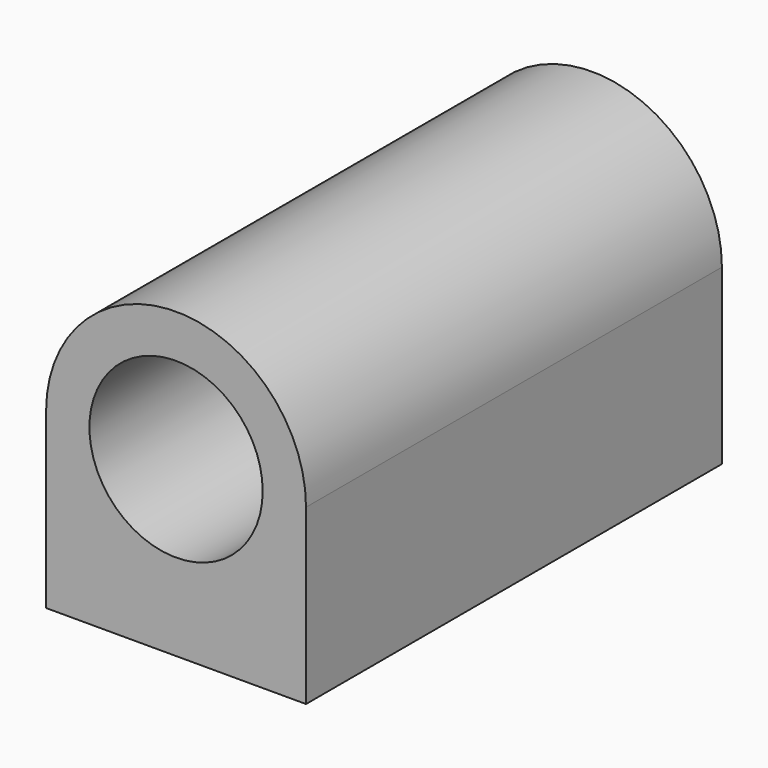
from build123d import *

# Parameters (mm, degrees)
F1_DEPTH = 38.1
F2_R     = 12.7
F3_DEPTH = 101.346
F4_R     = 1.651
F5_DEPTH = 12.7


with BuildPart() as f1:
    # F0 (on Front) → F1 (new body, symmetric)
    with BuildSketch(Plane.XZ):
        with BuildLine():
            Line((-19.05, 25.4), (-19.05, 0))
            Line((-19.05, 0), (19.05, 0))
            Line((19.05, 0), (19.05, 25.4))
            ThreePointArc((19.05, 25.4), (0, 44.45), (-19.05, 25.4))
        make_face()
    extrude(amount=F1_DEPTH, both=True)

    # F2 (on face) → F3 (cut)
    with BuildSketch(Plane.XZ.offset(38.1)):
        with Locations((0, 25.4)):
            Circle(F2_R)
    extrude(amount=-F3_DEPTH, mode=Mode.SUBTRACT)

    # F4 (on face) → F5 (cut)
    with BuildSketch(Plane(origin=(0, 0, 0), x_dir=(1, 0, 0), z_dir=(0, 0, -1))):
        with Locations((12.7, 31.75)):
            Circle(F4_R)
        with Locations((-12.7, 31.75)):
            Circle(F4_R)
        with Locations((-12.7, -31.75)):
            Circle(F4_R)
        with Locations((12.7, -31.75)):
            Circle(F4_R)
    extrude(amount=-F5_DEPTH, mode=Mode.SUBTRACT)


solid = f1.part
